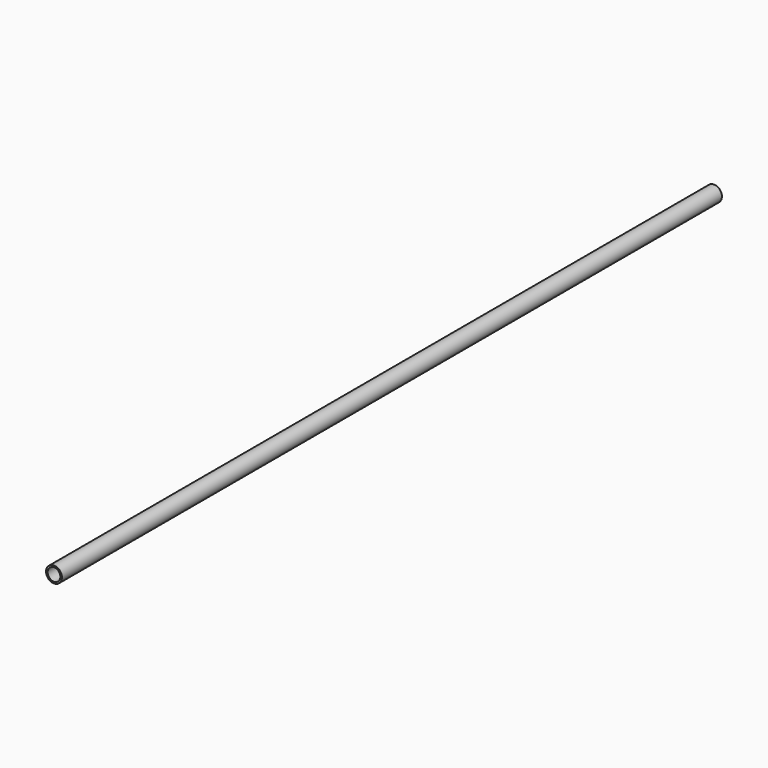
from build123d import *

# Parameters (mm, degrees)
F0_R     = 10
F0_R_2   = 8
F1_DEPTH = 1040


with BuildPart() as f1:
    # F0 (on Front) → F1 (new body)
    with BuildSketch(Plane.XZ):
        Circle(F0_R)
        Circle(F0_R_2, mode=Mode.SUBTRACT)
        Circle(F0_R)
        Circle(F0_R_2, mode=Mode.SUBTRACT)
    extrude(amount=-F1_DEPTH)


solid = f1.part
